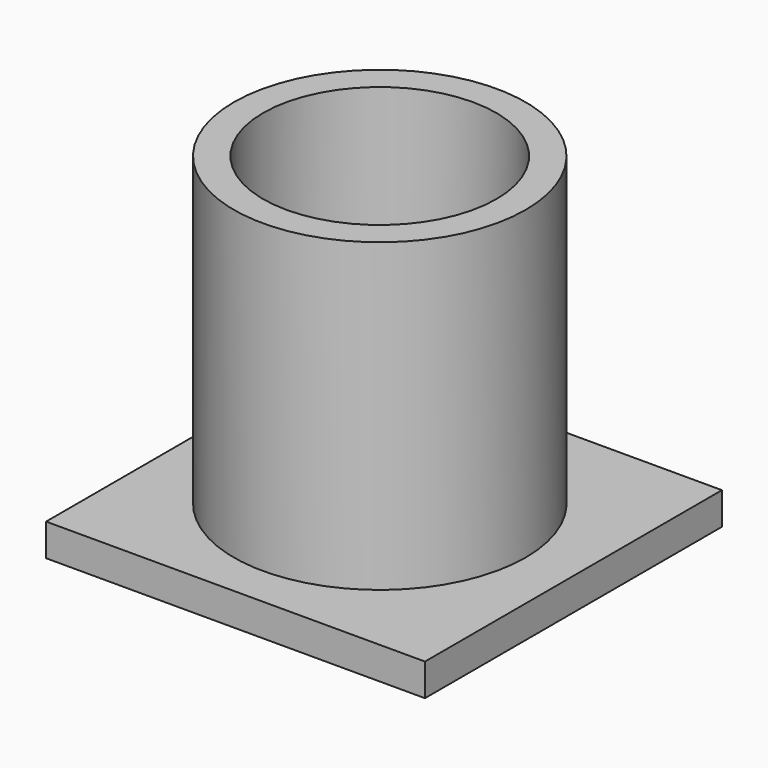
from build123d import *

# Parameters (mm, degrees)
F0_R        = 112.954685
F0_R_2      = 90.326171
F1_DEPTH    = 175
F1_FACE_R   = 112.954685
F1_FACE_R_2 = 90.326171
F2_DEPTH    = 87
F3_W        = 293.390907
F3_H        = 287.415445
F4_DEPTH    = 25


with BuildPart() as f1:
    # F0 (on Top) → F1 (new body)
    with BuildSketch(Plane.XY):
        with Locations((29.057469, 144.334614)):
            Circle(F0_R)
        with Locations((29.057469, 144.334614)):
            Circle(F0_R_2, mode=Mode.SUBTRACT)
    extrude(amount=F1_DEPTH)

    # F1_face (on face) → F2 (join)
    with BuildSketch(Plane(origin=(29.057469, 144.334614, 175), x_dir=(1, 0, 0), z_dir=(0, 0, 1))):
        Circle(F1_FACE_R)
        Circle(F1_FACE_R_2, mode=Mode.SUBTRACT)
    extrude(amount=F2_DEPTH)

    # F3 (on Top) → F4 (join)
    with BuildSketch(Plane.XY):
        with Locations((32.84381, 143.707722)):
            Rectangle(F3_W, F3_H)
    extrude(amount=F4_DEPTH)


solid = f1.part
